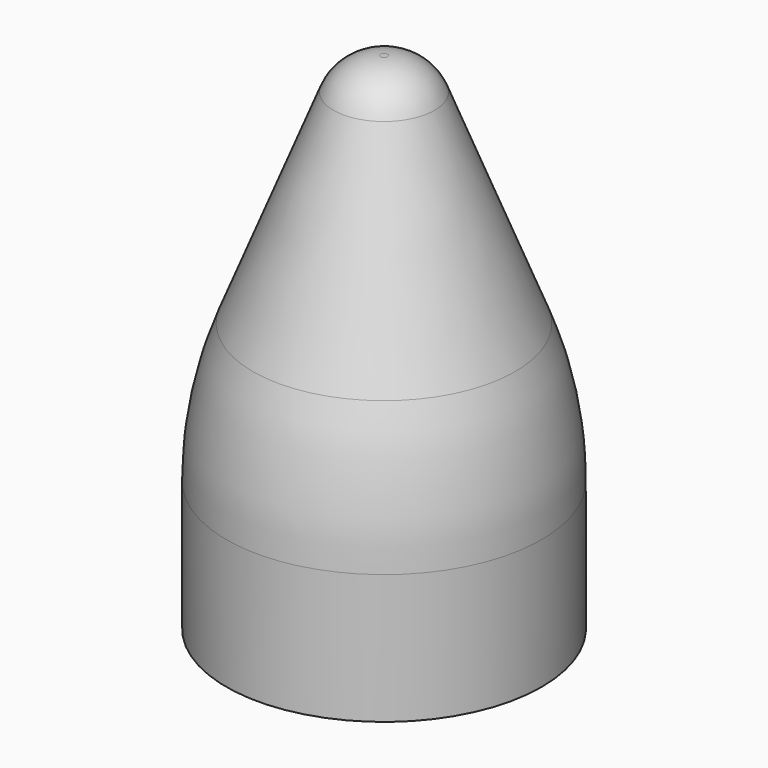
from build123d import *

# Parameters (mm, degrees)
F2_R = 4
F3_R = 30
F4_T = -1


with BuildPart() as f1:
    # F0 (on Front) → F1 (revolve)
    with BuildSketch(Plane.XZ):
        Polygon((-12.5, 0), (0, 0), (0, 40), (-3, 40), (-12.5, 16), align=None)
    revolve(axis=Axis((0, 0, 20), (0, 0, -1)))

    # F2
    f2_edges = [f1.edges().sort_by_distance(p)[0] for p in [
        (3, 0, 40),
    ]]
    fillet(f2_edges, radius=F2_R)

    # F3
    f3_edges = [f1.edges().sort_by_distance(p)[0] for p in [
        (12.5, 0, 16),
    ]]
    fillet(f3_edges, radius=F3_R)

    # F4
    f4_openings = [f1.faces().sort_by_distance(p)[0] for p in [
        (0, 0, 0),
    ]]
    offset(amount=F4_T, openings=f4_openings)


solid = f1.part
